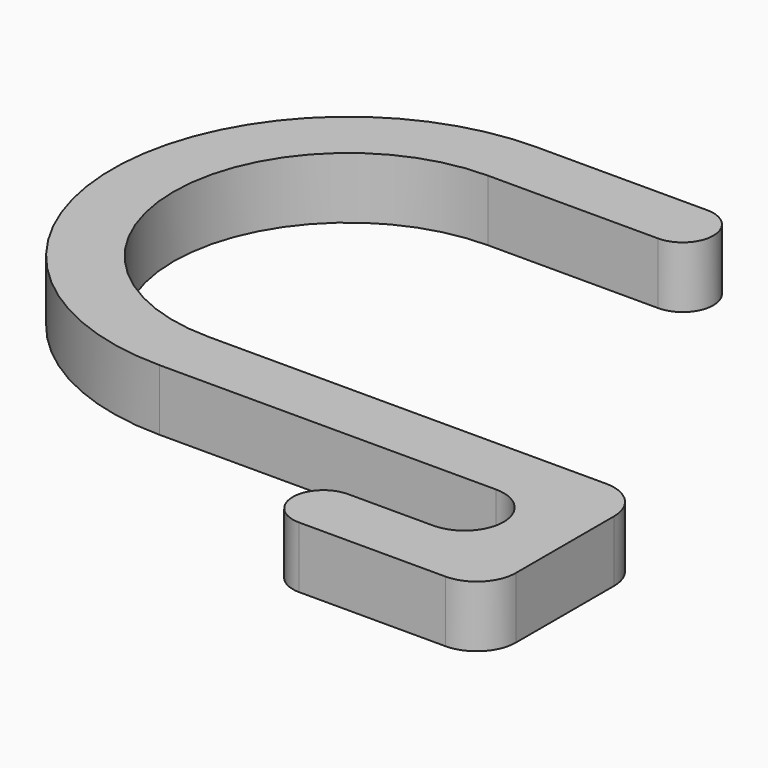
from build123d import *

# Parameters (mm, degrees)
F2_DEPTH = 1.8


with BuildPart() as f2:
    # F1 (on Top) → F2 (new body, symmetric)
    with BuildSketch(Plane.XY):
        with BuildLine():
            ThreePointArc((-19.75, -10.25), (-30, 3.401e-07), (-19.7499993197, 10.25))
            Line((-19.7499993197, 10.25), (-9.7499993197, 10.25))
            ThreePointArc((-9.7499993197, 10.25), (-7.95, 12.0500003401), (-9.75, 13.85))
            Line((-9.75, 13.85), (-19.75, 13.85))
            ThreePointArc((-19.75, 13.85), (-33.6, 0), (-19.75, -13.85))
            Line((-19.75, -13.85), (0, -13.85))
            ThreePointArc((0, -13.85), (2.3, -16.15), (0, -18.45))
            Line((0, -18.45), (-5, -18.45))
            ThreePointArc((-5, -18.45), (-6.8, -20.25), (-5, -22.05))
            Line((-5, -22.05), (3.6, -22.05))
            ThreePointArc((3.6, -22.05), (5.2263455967, -21.3763455967), (5.9, -19.75))
            Line((5.9, -19.75), (5.9, -12.55))
            ThreePointArc((5.9, -12.55), (5.2263455967, -10.9236544033), (3.6, -10.25))
            Line((3.6, -10.25), (-19.75, -10.25))
        make_face()
    extrude(amount=F2_DEPTH, both=True)


solid = f2.part
